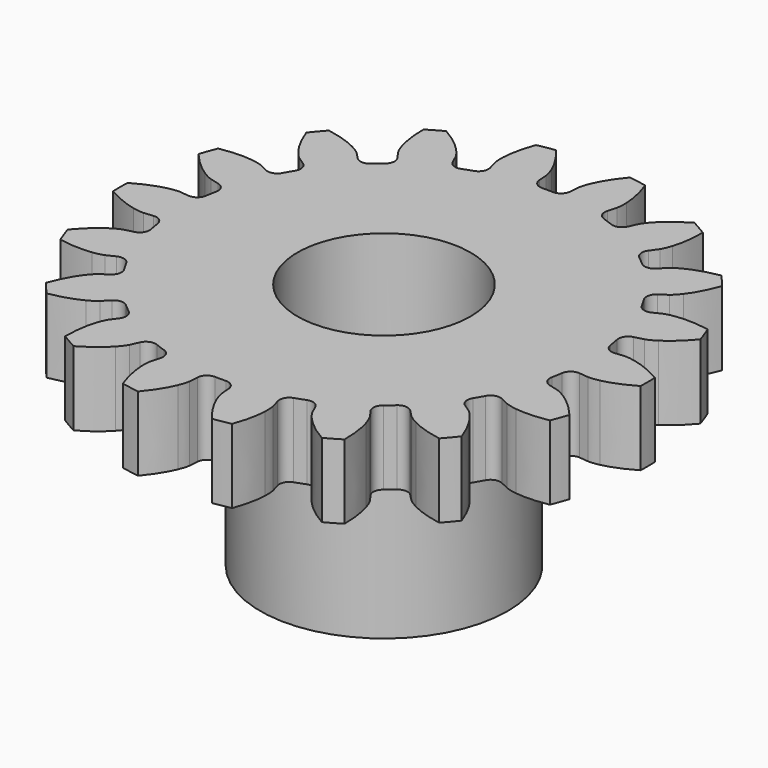
from build123d import *

# Parameters (mm, degrees)
CYLINDER005_R     = 3.5
CYLINDER005_DEPTH = 6.3
CYLINDER004_R     = 1.45
CYLINDER004_DEPTH = 20
CYLINDER003_R     = 3.5
CYLINDER003_DEPTH = 6.3
CYLINDER_R        = 1.45
CYLINDER_DEPTH    = 10
EXTRUDE_DEPTH     = 3
CYLINDER002_R     = 2.5
CYLINDER002_DEPTH = 2
CYLINDER001_R     = 5
CYLINDER001_DEPTH = 7


with BuildPart() as cylinder005:
    # Cylinder005 → Cylinder005 (new body)
    with BuildSketch(Plane.XY.offset(-3.3)):
        Circle(CYLINDER005_R)
    extrude(amount=CYLINDER005_DEPTH)


with BuildPart() as obj1:
    # Cylinder004 → Cylinder004 (new body)
    with BuildSketch(Plane.XY.offset(-10)):
        Circle(CYLINDER004_R)
    extrude(amount=CYLINDER004_DEPTH)


with BuildPart() as cilindro_superior:
    # Cylinder003 → Cylinder003 (new body)
    with BuildSketch(Plane.XY.offset(-3.3)):
        Circle(CYLINDER003_R)
    extrude(amount=CYLINDER003_DEPTH)


with BuildPart() as cilindro:
    # Cylinder → Cylinder (new body)
    with BuildSketch(Plane.XY.offset(-2)):
        Circle(CYLINDER_R)
    extrude(amount=CYLINDER_DEPTH)


with BuildPart() as cut002:
    # InvoluteGear → Extrude (new body)
    with BuildSketch(Plane.XY):
        with BuildLine():
            Line((8.612552, -0.883027), (8.992822, -0.921204))
            add(Edge.make_bspline(
                [(8.992822, -0.921204), (9.041564, -0.923074), (9.188211, -0.922532), (9.433139, -0.86888)],
                knots=[0, 0, 0, 0, 1, 1, 1, 1], degree=3))
            add(Edge.make_bspline(
                [(9.433139, -0.86888), (9.725891, -0.803665), (10.146415, -0.663171), (10.662031, -0.363025)],
                knots=[0, 0, 0, 0, 1, 1, 1, 1], degree=3))
            ThreePointArc((10.662031, -0.363025), (10.66821, 0), (10.662031, 0.363025))
            add(Edge.make_bspline(
                [(10.662031, 0.363025), (10.146415, 0.663171), (9.725891, 0.803665), (9.433139, 0.86888)],
                knots=[0, 0, 0, 0, 1, 1, 1, 1], degree=3))
            add(Edge.make_bspline(
                [(9.433139, 0.86888), (9.188211, 0.922532), (9.041564, 0.923074), (8.992822, 0.921204)],
                knots=[0, 0, 0, 0, 1, 1, 1, 1], degree=3))
            Line((8.992822, 0.921204), (8.612552, 0.883027))
            ThreePointArc((8.612552, 0.883027), (8.326615, 0.964857), (8.176195, 1.22143))
            ThreePointArc((8.176195, 1.22143), (8.141332, 1.435536), (8.100863, 1.648654))
            ThreePointArc((8.100863, 1.648654), (8.154459, 1.941201), (8.395165, 2.115893))
            Line((8.395165, 2.115893), (8.765559, 2.210078))
            add(Edge.make_bspline(
                [(8.765559, 2.210078), (8.812001, 2.224991), (8.949619, 2.275657), (9.161426, 2.409844)],
                knots=[0, 0, 0, 0, 1, 1, 1, 1], degree=3))
            add(Edge.make_bspline(
                [(9.161426, 2.409844), (9.414218, 2.571253), (9.761329, 2.847101), (10.143193, 3.305497)],
                knots=[0, 0, 0, 0, 1, 1, 1, 1], degree=3))
            ThreePointArc((10.143193, 3.305497), (10.024838, 3.648743), (9.89487, 3.987761))
            add(Edge.make_bspline(
                [(9.89487, 3.987761), (9.307694, 4.093455), (8.864479, 4.081649), (8.567077, 4.042804)],
                knots=[0, 0, 0, 0, 1, 1, 1, 1], degree=3))
            add(Edge.make_bspline(
                [(8.567077, 4.042804), (8.31857, 4.00945), (8.180581, 3.959803), (8.135418, 3.941375)],
                knots=[0, 0, 0, 0, 1, 1, 1, 1], degree=3))
            Line((8.135418, 3.941375), (7.791139, 3.77544))
            ThreePointArc((7.791139, 3.77544), (7.494458, 3.754539), (7.265356, 3.944192))
            ThreePointArc((7.265356, 3.944192), (7.159367, 4.133462), (7.048449, 4.319887))
            ThreePointArc((7.048449, 4.319887), (6.998755, 4.613122), (7.165196, 4.859604))
            Line((7.165196, 4.859604), (7.48104, 5.074791))
            add(Edge.make_bspline(
                [(7.48104, 5.074791), (7.519581, 5.104689), (7.63157, 5.199368), (7.784709, 5.397905)],
                knots=[0, 0, 0, 0, 1, 1, 1, 1], degree=3))
            add(Edge.make_bspline(
                [(7.784709, 5.397905), (7.967051, 5.636039), (8.198883, 6.013971), (8.400937, 6.575328)],
                knots=[0, 0, 0, 0, 1, 1, 1, 1], degree=3))
            ThreePointArc((8.400937, 6.575328), (8.172323, 6.857393), (7.934241, 7.131515))
            add(Edge.make_bspline(
                [(7.934241, 7.131515), (7.346327, 7.030008), (6.933879, 6.867326), (6.667699, 6.729106)],
                knots=[0, 0, 0, 0, 1, 1, 1, 1], degree=3))
            add(Edge.make_bspline(
                [(6.667699, 6.729106), (6.445586, 6.612769), (6.332899, 6.518921), (6.296763, 6.486158)],
                knots=[0, 0, 0, 0, 1, 1, 1, 1], degree=3))
            Line((6.296763, 6.486158), (6.029999, 6.21248))
            ThreePointArc((6.029999, 6.21248), (5.758359, 6.091368), (5.478208, 6.191226))
            ThreePointArc((5.478208, 6.191226), (5.313877, 6.332832), (5.145887, 6.470077))
            ThreePointArc((5.145887, 6.470077), (4.998898, 6.728632), (5.071, 7.017176))
            Line((5.071, 7.017176), (5.294197, 7.32741))
            add(Edge.make_bspline(
                [(5.294197, 7.32741), (5.320188, 7.368687), (5.393042, 7.495958), (5.469042, 7.734898)],
                knots=[0, 0, 0, 0, 1, 1, 1, 1], degree=3))
            add(Edge.make_bspline(
                [(5.469042, 7.734898), (5.55894, 8.021037), (5.647531, 8.455468), (5.645404, 9.052077)],
                knots=[0, 0, 0, 0, 1, 1, 1, 1], degree=3))
            ThreePointArc((5.645404, 9.052077), (5.334105, 9.238941), (5.016626, 9.415102))
            add(Edge.make_bspline(
                [(5.016626, 9.415102), (4.498885, 9.118639), (4.166951, 8.824702), (3.964098, 8.603778)],
                knots=[0, 0, 0, 0, 1, 1, 1, 1], degree=3))
            add(Edge.make_bspline(
                [(3.964098, 8.603778), (3.79517, 8.41849), (3.721376, 8.291761), (3.698625, 8.248614)],
                knots=[0, 0, 0, 0, 1, 1, 1, 1], degree=3))
            Line((3.698625, 8.248614), (3.541553, 7.900202))
            ThreePointArc((3.541553, 7.900202), (3.327717, 7.693488), (3.030308, 7.691507))
            ThreePointArc((3.030308, 7.691507), (2.827455, 7.768368), (2.622655, 7.839881))
            ThreePointArc((2.622655, 7.839881), (2.3961, 8.032569), (2.365165, 8.328372))
            Line((2.365165, 8.328372), (2.468796, 8.696235))
            add(Edge.make_bspline(
                [(2.468796, 8.696235), (2.479102, 8.743912), (2.504033, 8.888426), (2.493727, 9.138949)],
                knots=[0, 0, 0, 0, 1, 1, 1, 1], degree=3))
            add(Edge.make_bspline(
                [(2.493727, 9.138949), (2.480339, 9.438578), (2.415003, 9.87711), (2.208952, 10.437012)],
                knots=[0, 0, 0, 0, 1, 1, 1, 1], degree=3))
            ThreePointArc((2.208952, 10.437012), (1.852515, 10.506136), (1.493932, 10.563089))
            add(Edge.make_bspline(
                [(1.493932, 10.563089), (1.10881, 10.107427), (0.897428, 9.717688), (0.782368, 9.440708)],
                knots=[0, 0, 0, 0, 1, 1, 1, 1], degree=3))
            add(Edge.make_bspline(
                [(0.782368, 9.440708), (0.687, 9.208818), (0.661, 9.064492), (0.654378, 9.016166)],
                knots=[0, 0, 0, 0, 1, 1, 1, 1], degree=3))
            Line((0.654378, 9.016166), (0.625943, 8.635044))
            ThreePointArc((0.625943, 8.635044), (0.495703, 8.36766), (0.216907, 8.264079))
            ThreePointArc((0.216907, 8.264079), (0, 8.266925), (-0.216907, 8.264079))
            ThreePointArc((-0.216907, 8.264079), (-0.495703, 8.36766), (-0.625943, 8.635044))
            Line((-0.625943, 8.635044), (-0.654378, 9.016166))
            add(Edge.make_bspline(
                [(-0.654378, 9.016166), (-0.661, 9.064492), (-0.687, 9.208818), (-0.782368, 9.440708)],
                knots=[0, 0, 0, 0, 1, 1, 1, 1], degree=3))
            add(Edge.make_bspline(
                [(-0.782368, 9.440708), (-0.897428, 9.717688), (-1.10881, 10.107427), (-1.493932, 10.563089)],
                knots=[0, 0, 0, 0, 1, 1, 1, 1], degree=3))
            ThreePointArc((-1.493932, 10.563089), (-1.852515, 10.506136), (-2.208952, 10.437012))
            add(Edge.make_bspline(
                [(-2.208952, 10.437012), (-2.415003, 9.87711), (-2.480339, 9.438578), (-2.493727, 9.138949)],
                knots=[0, 0, 0, 0, 1, 1, 1, 1], degree=3))
            add(Edge.make_bspline(
                [(-2.493727, 9.138949), (-2.504033, 8.888426), (-2.479102, 8.743912), (-2.468796, 8.696235)],
                knots=[0, 0, 0, 0, 1, 1, 1, 1], degree=3))
            Line((-2.468796, 8.696235), (-2.365165, 8.328372))
            ThreePointArc((-2.365165, 8.328372), (-2.3961, 8.032569), (-2.622655, 7.839881))
            ThreePointArc((-2.622655, 7.839881), (-2.827455, 7.768368), (-3.030308, 7.691507))
            ThreePointArc((-3.030308, 7.691507), (-3.327717, 7.693488), (-3.541553, 7.900202))
            Line((-3.541553, 7.900202), (-3.698625, 8.248614))
            add(Edge.make_bspline(
                [(-3.698625, 8.248614), (-3.721376, 8.291761), (-3.79517, 8.41849), (-3.964098, 8.603778)],
                knots=[0, 0, 0, 0, 1, 1, 1, 1], degree=3))
            add(Edge.make_bspline(
                [(-3.964098, 8.603778), (-4.166951, 8.824702), (-4.498885, 9.118639), (-5.016626, 9.415102)],
                knots=[0, 0, 0, 0, 1, 1, 1, 1], degree=3))
            ThreePointArc((-5.016626, 9.415102), (-5.334105, 9.238941), (-5.645404, 9.052077))
            add(Edge.make_bspline(
                [(-5.645404, 9.052077), (-5.647531, 8.455468), (-5.55894, 8.021037), (-5.469042, 7.734898)],
                knots=[0, 0, 0, 0, 1, 1, 1, 1], degree=3))
            add(Edge.make_bspline(
                [(-5.469042, 7.734898), (-5.393042, 7.495958), (-5.320188, 7.368687), (-5.294197, 7.32741)],
                knots=[0, 0, 0, 0, 1, 1, 1, 1], degree=3))
            Line((-5.294197, 7.32741), (-5.071, 7.017176))
            ThreePointArc((-5.071, 7.017176), (-4.998898, 6.728632), (-5.145887, 6.470077))
            ThreePointArc((-5.145887, 6.470077), (-5.313877, 6.332832), (-5.478208, 6.191226))
            ThreePointArc((-5.478208, 6.191226), (-5.758359, 6.091368), (-6.029999, 6.21248))
            Line((-6.029999, 6.21248), (-6.296763, 6.486158))
            add(Edge.make_bspline(
                [(-6.296763, 6.486158), (-6.332899, 6.518921), (-6.445586, 6.612769), (-6.667699, 6.729106)],
                knots=[0, 0, 0, 0, 1, 1, 1, 1], degree=3))
            add(Edge.make_bspline(
                [(-6.667699, 6.729106), (-6.933879, 6.867326), (-7.346327, 7.030008), (-7.934241, 7.131515)],
                knots=[0, 0, 0, 0, 1, 1, 1, 1], degree=3))
            ThreePointArc((-7.934241, 7.131515), (-8.172323, 6.857393), (-8.400937, 6.575328))
            add(Edge.make_bspline(
                [(-8.400937, 6.575328), (-8.198883, 6.013971), (-7.967051, 5.636039), (-7.784709, 5.397905)],
                knots=[0, 0, 0, 0, 1, 1, 1, 1], degree=3))
            add(Edge.make_bspline(
                [(-7.784709, 5.397905), (-7.63157, 5.199368), (-7.519581, 5.104689), (-7.48104, 5.074791)],
                knots=[0, 0, 0, 0, 1, 1, 1, 1], degree=3))
            Line((-7.48104, 5.074791), (-7.165196, 4.859604))
            ThreePointArc((-7.165196, 4.859604), (-6.998755, 4.613122), (-7.048449, 4.319887))
            ThreePointArc((-7.048449, 4.319887), (-7.159367, 4.133463), (-7.265356, 3.944192))
            ThreePointArc((-7.265356, 3.944192), (-7.494458, 3.754539), (-7.791139, 3.77544))
            Line((-7.791139, 3.77544), (-8.135418, 3.941375))
            add(Edge.make_bspline(
                [(-8.135418, 3.941375), (-8.180581, 3.959803), (-8.31857, 4.00945), (-8.567077, 4.042804)],
                knots=[0, 0, 0, 0, 1, 1, 1, 1], degree=3))
            add(Edge.make_bspline(
                [(-8.567077, 4.042804), (-8.864479, 4.081649), (-9.307694, 4.093455), (-9.89487, 3.987761)],
                knots=[0, 0, 0, 0, 1, 1, 1, 1], degree=3))
            ThreePointArc((-9.89487, 3.987761), (-10.024838, 3.648743), (-10.143193, 3.305497))
            add(Edge.make_bspline(
                [(-10.143193, 3.305497), (-9.761329, 2.847101), (-9.414218, 2.571253), (-9.161426, 2.409844)],
                knots=[0, 0, 0, 0, 1, 1, 1, 1], degree=3))
            add(Edge.make_bspline(
                [(-9.161426, 2.409844), (-8.949619, 2.275657), (-8.812001, 2.224991), (-8.765559, 2.210078)],
                knots=[0, 0, 0, 0, 1, 1, 1, 1], degree=3))
            Line((-8.765559, 2.210078), (-8.395165, 2.115893))
            ThreePointArc((-8.395165, 2.115893), (-8.154459, 1.941201), (-8.100863, 1.648654))
            ThreePointArc((-8.100863, 1.648654), (-8.141332, 1.435536), (-8.176195, 1.22143))
            ThreePointArc((-8.176195, 1.22143), (-8.326615, 0.964857), (-8.612552, 0.883027))
            Line((-8.612552, 0.883027), (-8.992822, 0.921204))
            add(Edge.make_bspline(
                [(-8.992822, 0.921204), (-9.041564, 0.923074), (-9.188211, 0.922532), (-9.433139, 0.86888)],
                knots=[0, 0, 0, 0, 1, 1, 1, 1], degree=3))
            add(Edge.make_bspline(
                [(-9.433139, 0.86888), (-9.725891, 0.803665), (-10.146415, 0.663171), (-10.662031, 0.363025)],
                knots=[0, 0, 0, 0, 1, 1, 1, 1], degree=3))
            ThreePointArc((-10.662031, 0.363025), (-10.66821, 0), (-10.662031, -0.363025))
            add(Edge.make_bspline(
                [(-10.662031, -0.363025), (-10.146415, -0.663171), (-9.725891, -0.803665), (-9.433139, -0.86888)],
                knots=[0, 0, 0, 0, 1, 1, 1, 1], degree=3))
            add(Edge.make_bspline(
                [(-9.433139, -0.86888), (-9.188211, -0.922532), (-9.041564, -0.923074), (-8.992822, -0.921204)],
                knots=[0, 0, 0, 0, 1, 1, 1, 1], degree=3))
            Line((-8.992822, -0.921204), (-8.612552, -0.883027))
            ThreePointArc((-8.612552, -0.883027), (-8.326615, -0.964857), (-8.176195, -1.22143))
            ThreePointArc((-8.176195, -1.22143), (-8.141332, -1.435536), (-8.100863, -1.648654))
            ThreePointArc((-8.100863, -1.648654), (-8.154459, -1.941201), (-8.395165, -2.115893))
            Line((-8.395165, -2.115893), (-8.765559, -2.210078))
            add(Edge.make_bspline(
                [(-8.765559, -2.210078), (-8.812001, -2.224991), (-8.949619, -2.275657), (-9.161426, -2.409844)],
                knots=[0, 0, 0, 0, 1, 1, 1, 1], degree=3))
            add(Edge.make_bspline(
                [(-9.161426, -2.409844), (-9.414218, -2.571253), (-9.761329, -2.847101), (-10.143193, -3.305497)],
                knots=[0, 0, 0, 0, 1, 1, 1, 1], degree=3))
            ThreePointArc((-10.143193, -3.305497), (-10.024838, -3.648743), (-9.89487, -3.987761))
            add(Edge.make_bspline(
                [(-9.89487, -3.987761), (-9.307694, -4.093455), (-8.864479, -4.081649), (-8.567077, -4.042804)],
                knots=[0, 0, 0, 0, 1, 1, 1, 1], degree=3))
            add(Edge.make_bspline(
                [(-8.567077, -4.042804), (-8.31857, -4.00945), (-8.180581, -3.959803), (-8.135418, -3.941375)],
                knots=[0, 0, 0, 0, 1, 1, 1, 1], degree=3))
            Line((-8.135418, -3.941375), (-7.791139, -3.77544))
            ThreePointArc((-7.791139, -3.77544), (-7.494458, -3.754539), (-7.265356, -3.944192))
            ThreePointArc((-7.265356, -3.944192), (-7.159367, -4.133462), (-7.048449, -4.319887))
            ThreePointArc((-7.048449, -4.319887), (-6.998755, -4.613122), (-7.165196, -4.859604))
            Line((-7.165196, -4.859604), (-7.48104, -5.074791))
            add(Edge.make_bspline(
                [(-7.48104, -5.074791), (-7.519581, -5.104689), (-7.63157, -5.199368), (-7.784709, -5.397905)],
                knots=[0, 0, 0, 0, 1, 1, 1, 1], degree=3))
            add(Edge.make_bspline(
                [(-7.784709, -5.397905), (-7.967051, -5.636039), (-8.198883, -6.013971), (-8.400937, -6.575328)],
                knots=[0, 0, 0, 0, 1, 1, 1, 1], degree=3))
            ThreePointArc((-8.400937, -6.575328), (-8.172323, -6.857393), (-7.934241, -7.131515))
            add(Edge.make_bspline(
                [(-7.934241, -7.131515), (-7.346327, -7.030008), (-6.933879, -6.867326), (-6.667699, -6.729106)],
                knots=[0, 0, 0, 0, 1, 1, 1, 1], degree=3))
            add(Edge.make_bspline(
                [(-6.667699, -6.729106), (-6.445586, -6.612769), (-6.332899, -6.518921), (-6.296763, -6.486158)],
                knots=[0, 0, 0, 0, 1, 1, 1, 1], degree=3))
            Line((-6.296763, -6.486158), (-6.029999, -6.21248))
            ThreePointArc((-6.029999, -6.21248), (-5.758359, -6.091368), (-5.478208, -6.191226))
            ThreePointArc((-5.478208, -6.191226), (-5.313877, -6.332832), (-5.145887, -6.470077))
            ThreePointArc((-5.145887, -6.470077), (-4.998898, -6.728632), (-5.071, -7.017176))
            Line((-5.071, -7.017176), (-5.294197, -7.32741))
            add(Edge.make_bspline(
                [(-5.294197, -7.32741), (-5.320188, -7.368687), (-5.393042, -7.495958), (-5.469042, -7.734898)],
                knots=[0, 0, 0, 0, 1, 1, 1, 1], degree=3))
            add(Edge.make_bspline(
                [(-5.469042, -7.734898), (-5.55894, -8.021037), (-5.647531, -8.455468), (-5.645404, -9.052077)],
                knots=[0, 0, 0, 0, 1, 1, 1, 1], degree=3))
            ThreePointArc((-5.645404, -9.052077), (-5.334105, -9.238941), (-5.016626, -9.415102))
            add(Edge.make_bspline(
                [(-5.016626, -9.415102), (-4.498885, -9.118639), (-4.166951, -8.824702), (-3.964098, -8.603778)],
                knots=[0, 0, 0, 0, 1, 1, 1, 1], degree=3))
            add(Edge.make_bspline(
                [(-3.964098, -8.603778), (-3.79517, -8.41849), (-3.721376, -8.291761), (-3.698625, -8.248614)],
                knots=[0, 0, 0, 0, 1, 1, 1, 1], degree=3))
            Line((-3.698625, -8.248614), (-3.541553, -7.900202))
            ThreePointArc((-3.541553, -7.900202), (-3.327717, -7.693488), (-3.030308, -7.691507))
            ThreePointArc((-3.030308, -7.691507), (-2.827455, -7.768368), (-2.622655, -7.839881))
            ThreePointArc((-2.622655, -7.839881), (-2.3961, -8.032569), (-2.365165, -8.328372))
            Line((-2.365165, -8.328372), (-2.468796, -8.696235))
            add(Edge.make_bspline(
                [(-2.468796, -8.696235), (-2.479102, -8.743912), (-2.504033, -8.888426), (-2.493727, -9.138949)],
                knots=[0, 0, 0, 0, 1, 1, 1, 1], degree=3))
            add(Edge.make_bspline(
                [(-2.493727, -9.138949), (-2.480339, -9.438578), (-2.415003, -9.87711), (-2.208952, -10.437012)],
                knots=[0, 0, 0, 0, 1, 1, 1, 1], degree=3))
            ThreePointArc((-2.208952, -10.437012), (-1.852515, -10.506136), (-1.493932, -10.563089))
            add(Edge.make_bspline(
                [(-1.493932, -10.563089), (-1.10881, -10.107427), (-0.897428, -9.717688), (-0.782368, -9.440708)],
                knots=[0, 0, 0, 0, 1, 1, 1, 1], degree=3))
            add(Edge.make_bspline(
                [(-0.782368, -9.440708), (-0.687, -9.208818), (-0.661, -9.064492), (-0.654378, -9.016166)],
                knots=[0, 0, 0, 0, 1, 1, 1, 1], degree=3))
            Line((-0.654378, -9.016166), (-0.625943, -8.635044))
            ThreePointArc((-0.625943, -8.635044), (-0.495703, -8.36766), (-0.216907, -8.264079))
            ThreePointArc((-0.216907, -8.264079), (0, -8.266925), (0.216907, -8.264079))
            ThreePointArc((0.216907, -8.264079), (0.495703, -8.36766), (0.625943, -8.635044))
            Line((0.625943, -8.635044), (0.654378, -9.016166))
            add(Edge.make_bspline(
                [(0.654378, -9.016166), (0.661, -9.064492), (0.687, -9.208818), (0.782368, -9.440708)],
                knots=[0, 0, 0, 0, 1, 1, 1, 1], degree=3))
            add(Edge.make_bspline(
                [(0.782368, -9.440708), (0.897428, -9.717688), (1.10881, -10.107427), (1.493932, -10.563089)],
                knots=[0, 0, 0, 0, 1, 1, 1, 1], degree=3))
            ThreePointArc((1.493932, -10.563089), (1.852515, -10.506136), (2.208952, -10.437012))
            add(Edge.make_bspline(
                [(2.208952, -10.437012), (2.415003, -9.87711), (2.480339, -9.438578), (2.493727, -9.138949)],
                knots=[0, 0, 0, 0, 1, 1, 1, 1], degree=3))
            add(Edge.make_bspline(
                [(2.493727, -9.138949), (2.504033, -8.888426), (2.479102, -8.743912), (2.468796, -8.696235)],
                knots=[0, 0, 0, 0, 1, 1, 1, 1], degree=3))
            Line((2.468796, -8.696235), (2.365165, -8.328372))
            ThreePointArc((2.365165, -8.328372), (2.3961, -8.032569), (2.622655, -7.839881))
            ThreePointArc((2.622655, -7.839881), (2.827455, -7.768368), (3.030308, -7.691507))
            ThreePointArc((3.030308, -7.691507), (3.327717, -7.693488), (3.541553, -7.900202))
            Line((3.541553, -7.900202), (3.698625, -8.248614))
            add(Edge.make_bspline(
                [(3.698625, -8.248614), (3.721376, -8.291761), (3.79517, -8.41849), (3.964098, -8.603778)],
                knots=[0, 0, 0, 0, 1, 1, 1, 1], degree=3))
            add(Edge.make_bspline(
                [(3.964098, -8.603778), (4.166951, -8.824702), (4.498885, -9.118639), (5.016626, -9.415102)],
                knots=[0, 0, 0, 0, 1, 1, 1, 1], degree=3))
            ThreePointArc((5.016626, -9.415102), (5.334105, -9.238941), (5.645404, -9.052077))
            add(Edge.make_bspline(
                [(5.645404, -9.052077), (5.647531, -8.455468), (5.55894, -8.021037), (5.469042, -7.734898)],
                knots=[0, 0, 0, 0, 1, 1, 1, 1], degree=3))
            add(Edge.make_bspline(
                [(5.469042, -7.734898), (5.393042, -7.495958), (5.320188, -7.368687), (5.294197, -7.32741)],
                knots=[0, 0, 0, 0, 1, 1, 1, 1], degree=3))
            Line((5.294197, -7.32741), (5.071, -7.017176))
            ThreePointArc((5.071, -7.017176), (4.998898, -6.728632), (5.145887, -6.470077))
            ThreePointArc((5.145887, -6.470077), (5.313877, -6.332832), (5.478208, -6.191226))
            ThreePointArc((5.478208, -6.191226), (5.758359, -6.091368), (6.029999, -6.21248))
            Line((6.029999, -6.21248), (6.296763, -6.486158))
            add(Edge.make_bspline(
                [(6.296763, -6.486158), (6.332899, -6.518921), (6.445586, -6.612769), (6.667699, -6.729106)],
                knots=[0, 0, 0, 0, 1, 1, 1, 1], degree=3))
            add(Edge.make_bspline(
                [(6.667699, -6.729106), (6.933879, -6.867326), (7.346327, -7.030008), (7.934241, -7.131515)],
                knots=[0, 0, 0, 0, 1, 1, 1, 1], degree=3))
            ThreePointArc((7.934241, -7.131515), (8.172323, -6.857393), (8.400937, -6.575328))
            add(Edge.make_bspline(
                [(8.400937, -6.575328), (8.198883, -6.013971), (7.967051, -5.636039), (7.784709, -5.397905)],
                knots=[0, 0, 0, 0, 1, 1, 1, 1], degree=3))
            add(Edge.make_bspline(
                [(7.784709, -5.397905), (7.63157, -5.199368), (7.519581, -5.104689), (7.48104, -5.074791)],
                knots=[0, 0, 0, 0, 1, 1, 1, 1], degree=3))
            Line((7.48104, -5.074791), (7.165196, -4.859604))
            ThreePointArc((7.165196, -4.859604), (6.998755, -4.613122), (7.048449, -4.319887))
            ThreePointArc((7.048449, -4.319887), (7.159367, -4.133463), (7.265356, -3.944192))
            ThreePointArc((7.265356, -3.944192), (7.494458, -3.754539), (7.791139, -3.77544))
            Line((7.791139, -3.77544), (8.135418, -3.941375))
            add(Edge.make_bspline(
                [(8.135418, -3.941375), (8.180581, -3.959803), (8.31857, -4.00945), (8.567077, -4.042804)],
                knots=[0, 0, 0, 0, 1, 1, 1, 1], degree=3))
            add(Edge.make_bspline(
                [(8.567077, -4.042804), (8.864479, -4.081649), (9.307694, -4.093455), (9.89487, -3.987761)],
                knots=[0, 0, 0, 0, 1, 1, 1, 1], degree=3))
            ThreePointArc((9.89487, -3.987761), (10.024838, -3.648743), (10.143193, -3.305497))
            add(Edge.make_bspline(
                [(10.143193, -3.305497), (9.761329, -2.847101), (9.414218, -2.571253), (9.161426, -2.409844)],
                knots=[0, 0, 0, 0, 1, 1, 1, 1], degree=3))
            add(Edge.make_bspline(
                [(9.161426, -2.409844), (8.949619, -2.275657), (8.812001, -2.224991), (8.765559, -2.210078)],
                knots=[0, 0, 0, 0, 1, 1, 1, 1], degree=3))
            Line((8.765559, -2.210078), (8.395165, -2.115893))
            ThreePointArc((8.395165, -2.115893), (8.154459, -1.941201), (8.100863, -1.648654))
            ThreePointArc((8.100863, -1.648654), (8.141332, -1.435536), (8.176195, -1.22143))
            ThreePointArc((8.176195, -1.22143), (8.326615, -0.964857), (8.612552, -0.883027))
        make_face()
    extrude(amount=EXTRUDE_DEPTH)

    # Cut: cut Cilindro
    add(cilindro.part, mode=Mode.SUBTRACT)

    # Cut002: cut Cilindro superior
    add(cilindro_superior.part, mode=Mode.SUBTRACT)


with BuildPart() as cilindro_interior:
    # Cylinder002 → Cylinder002 (new body)
    with BuildSketch(Plane.XY.offset(-7)):
        Circle(CYLINDER002_R)
    extrude(amount=CYLINDER002_DEPTH)


with BuildPart() as engranaje_2_final:
    # Cylinder001 → Cylinder001 (new body)
    with BuildSketch(Plane.XY.offset(-7)):
        Circle(CYLINDER001_R)
    extrude(amount=CYLINDER001_DEPTH)

    # Cut001: cut Cilindro interior
    add(cilindro_interior.part, mode=Mode.SUBTRACT)

    # Fusion: union Cut002
    add(cut002.part)

    # Cut003: cut obj1
    add(obj1.part, mode=Mode.SUBTRACT)

    # Cut004: cut Cylinder005
    add(cylinder005.part, mode=Mode.SUBTRACT)


solid = engranaje_2_final.part
